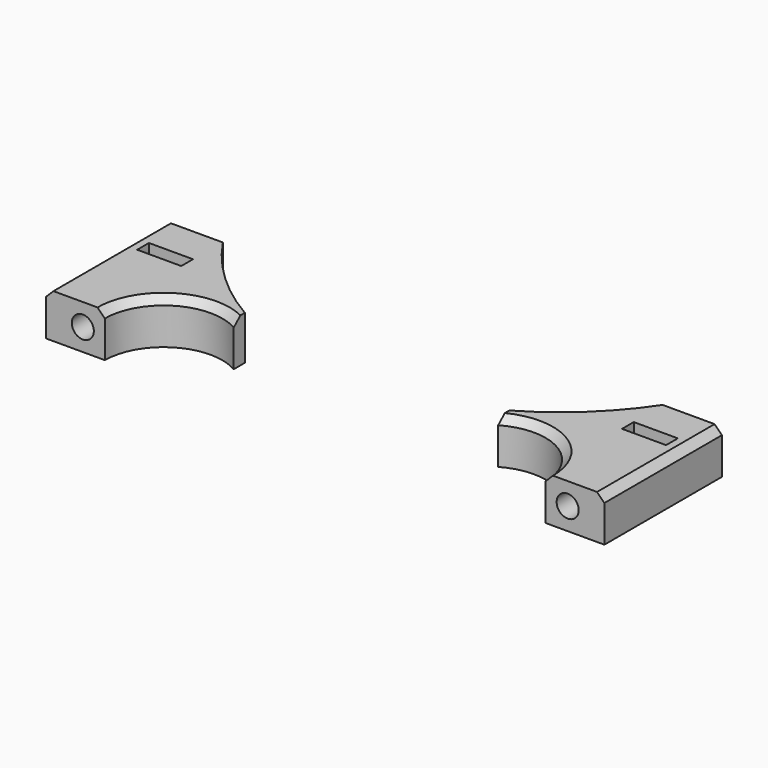
from build123d import *

# Parameters (mm, degrees)
CYLINDER2686_R     = 1.5
CYLINDER2686_DEPTH = 60
CYLINDER2685_R     = 1.5
CYLINDER2685_DEPTH = 60
BOX918_W           = 6
BOX918_H           = 2
BOX918_DEPTH       = 6
BOX917_W           = 6
BOX917_H           = 2
BOX917_DEPTH       = 6
CYLINDER2673_R     = 36
CYLINDER2673_DEPTH = 16
CYLINDER2670_R     = 8
CYLINDER2670_DEPTH = 16
CYLINDER2671_R     = 8
CYLINDER2671_DEPTH = 16
BOX910_W           = 20
BOX910_H           = 20
BOX910_DEPTH       = 6
BOX911_W           = 20
BOX911_H           = 20
BOX911_DEPTH       = 6
CHAMFER134_SIZE    = 1
CHAMFER136_SIZE    = 1
CHAMFER137_SIZE    = 1
CHAMFER138_SIZE    = 1


with BuildPart() as obj1:
    # Cylinder2686 → Cylinder2686 (new body)
    with BuildSketch(Plane(origin=(33, -10, 8), x_dir=(1, 0, 0), z_dir=(0, -1, 0))):
        Circle(CYLINDER2686_R)
    extrude(amount=CYLINDER2686_DEPTH)


with BuildPart() as compound1195:
    # Cylinder2685 → Cylinder2685 (new body)
    with BuildSketch(Plane(origin=(-33, -10, 8), x_dir=(1, 0, 0), z_dir=(0, -1, 0))):
        Circle(CYLINDER2685_R)
    extrude(amount=CYLINDER2685_DEPTH)

    # Compound1195: union obj1
    add(obj1.part)


with BuildPart() as compound1195_1:
    # Compound1195 placement: moved
    add(compound1195.part.moved(Location((0, -4, 0))))


with BuildPart() as krychle917:
    # Box918 → Box918 (new body)
    with BuildSketch(Plane(origin=(-36, -27, 5), x_dir=(1, 0, 0), z_dir=(0, 0, 1))):
        with Locations((3, 1)):
            Rectangle(BOX918_W, BOX918_H)
    extrude(amount=BOX918_DEPTH)


with BuildPart() as compound1192:
    # Box917 → Box917 (new body)
    with BuildSketch(Plane(origin=(30, -27, 5), x_dir=(1, 0, 0), z_dir=(0, 0, 1))):
        with Locations((3, 1)):
            Rectangle(BOX917_W, BOX917_H)
    extrude(amount=BOX917_DEPTH)

    # Compound1192: union Krychle917
    add(krychle917.part)


with BuildPart() as obj2:
    # Cylinder2673 → Cylinder2673 (new body)
    with BuildSketch(Plane.XY):
        Circle(CYLINDER2673_R)
    extrude(amount=CYLINDER2673_DEPTH)


with BuildPart() as obj3:
    # Cylinder2670 → Cylinder2670 (new body)
    with BuildSketch(Plane(origin=(-22, -40, 0), x_dir=(1, 0, 0), z_dir=(0, 0, 1))):
        Circle(CYLINDER2670_R)
    extrude(amount=CYLINDER2670_DEPTH)


with BuildPart() as compound1182:
    # Cylinder2671 → Cylinder2671 (new body)
    with BuildSketch(Plane(origin=(22, -40, 0), x_dir=(1, 0, 0), z_dir=(0, 0, 1))):
        Circle(CYLINDER2671_R)
    extrude(amount=CYLINDER2671_DEPTH)

    # Compound1182: union obj3
    add(obj3.part)


with BuildPart() as krychle909:
    # Box910 → Box910 (new body)
    with BuildSketch(Plane(origin=(-38, -40, 5), x_dir=(1, 0, 0), z_dir=(0, 0, 1))):
        with Locations((10, 10)):
            Rectangle(BOX910_W, BOX910_H)
    extrude(amount=BOX910_DEPTH)


with BuildPart() as cut1007:
    # Box911 → Box911 (new body)
    with BuildSketch(Plane(origin=(18, -40, 5), x_dir=(1, 0, 0), z_dir=(0, 0, 1))):
        with Locations((10, 10)):
            Rectangle(BOX911_W, BOX911_H)
    extrude(amount=BOX911_DEPTH)

    # Compound1181: union Krychle909
    add(krychle909.part)

    # Cut993: cut Compound1182
    add(compound1182.part, mode=Mode.SUBTRACT)

    # Chamfer134
    chamfer134_edges = [cut1007.edges().sort_by_distance(p)[0] for p in [
        (26, -33.071797, 11),
    ]]
    chamfer(chamfer134_edges, length=CHAMFER134_SIZE)

    # Chamfer136
    chamfer136_edges = [cut1007.edges().sort_by_distance(p)[0] for p in [
        (38, -30, 11),
    ]]
    chamfer(chamfer136_edges, length=CHAMFER136_SIZE)

    # Chamfer137
    chamfer137_edges = [cut1007.edges().sort_by_distance(p)[0] for p in [
        (-38, -30, 11),
    ]]
    chamfer(chamfer137_edges, length=CHAMFER137_SIZE)

    # Chamfer138
    chamfer138_edges = [cut1007.edges().sort_by_distance(p)[0] for p in [
        (-26, -33.071797, 11),
    ]]
    chamfer(chamfer138_edges, length=CHAMFER138_SIZE)

    # Cut995: cut obj2
    add(obj2.part, mode=Mode.SUBTRACT)

    # Cut1004: cut Compound1192
    add(compound1192.part, mode=Mode.SUBTRACT)

    # Cut1007: cut Compound1195
    add(compound1195_1.part, mode=Mode.SUBTRACT)


solid = cut1007.part
